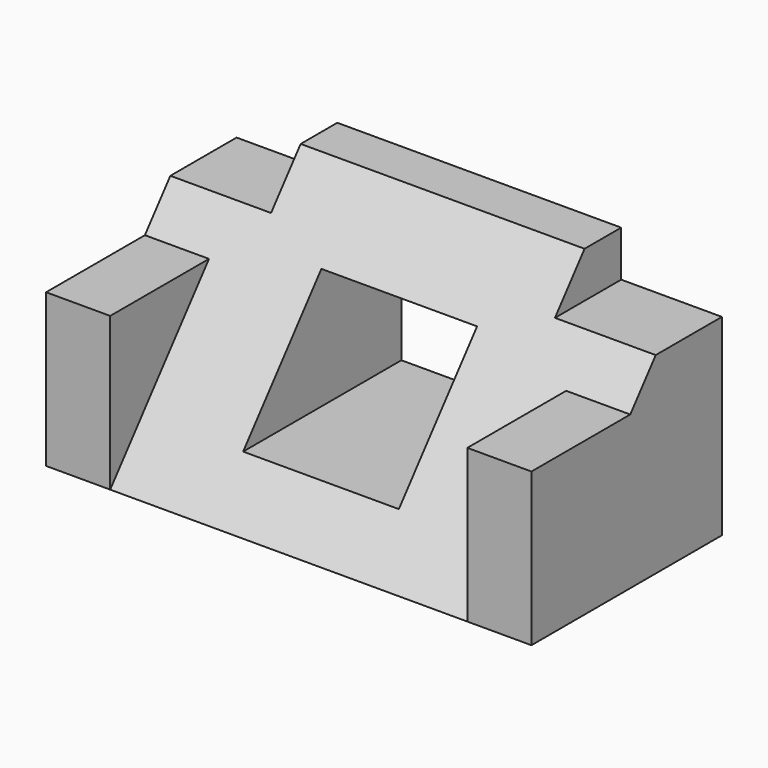
from build123d import *

# Parameters (mm, degrees)
PAD_DEPTH       = 26.5
PAD_DEPTH_BACK  = 26.5
SKETCH001_W     = 5
SKETCH001_H     = 11
POCKET_DEPTH    = 155.012627
SKETCH002_W     = 16.7
SKETCH002_H     = 7
PAD001_DEPTH    = 26
SKETCH004_W     = 13.225
SKETCH004_H     = 17
POCKET001_DEPTH = 26.001


with BuildPart() as part:
    # Sketch → Pad (new body, two sides)
    with BuildSketch(Plane.YZ) as pad_sk:
        Polygon((-5, 26), (0, 26), (0, 0), (-26, 0), align=None)
    extrude(amount=PAD_DEPTH)
    extrude(pad_sk.sketch, amount=-PAD_DEPTH_BACK)

    # Sketch001 (on Face2 of Pad) → Pocket (cut, through all)
    with BuildSketch(Plane.ZX):
        with Locations((23.5, 21)):
            Rectangle(SKETCH001_W, SKETCH001_H)
    pocket = extrude(amount=-POCKET_DEPTH, mode=Mode.SUBTRACT)

    # Mirrored: Pocket across Sketch001 H_Axis
    add(pocket.mirror(Plane.YZ), mode=Mode.SUBTRACT)

    # Sketch002 (on Face3 of Mirrored) → Pad001 (join)
    with BuildSketch(Plane.ZX):
        with Locations((8.35, 23)):
            Rectangle(SKETCH002_W, SKETCH002_H)
    pad001 = extrude(amount=-PAD001_DEPTH)

    # Mirrored001: Pad001 across Sketch002 H_Axis
    add(pad001.mirror(Plane.YZ))

    # Sketch004 (on Face3 of Mirrored001) → Pocket001 (cut, through all)
    with BuildSketch(Plane.ZX):
        with Locations((12.058088, 0)):
            Rectangle(SKETCH004_W, SKETCH004_H)
    extrude(amount=-POCKET001_DEPTH, mode=Mode.SUBTRACT)


solid = part.part
